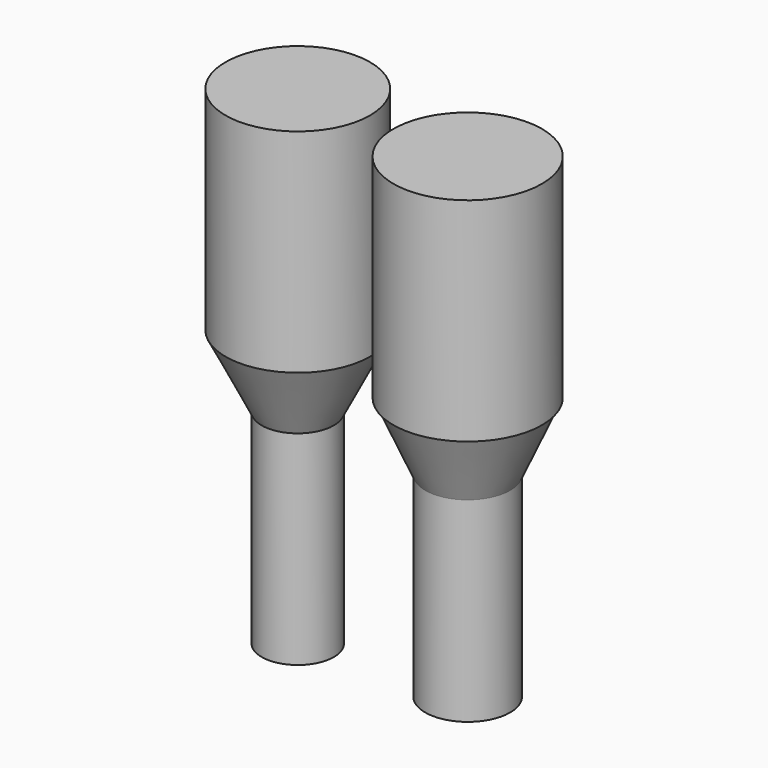
from build123d import *

# Parameters (mm, degrees)
CYLINDER_R        = 2
CYLINDER_DEPTH    = 9.2
CYLINDER003_R     = 3.5
CYLINDER003_DEPTH = 10
CYLINDER002_R     = 3.4
CYLINDER002_DEPTH = 10
CYLINDER001_R     = 1.7
CYLINDER001_DEPTH = 9.6


with BuildPart() as pass_screw_thread:
    # Cylinder → Cylinder (new body)
    with BuildSketch(Plane.XY.offset(-9.2)):
        Circle(CYLINDER_R)
    extrude(amount=CYLINDER_DEPTH)


with BuildPart() as pass_screw_head:
    # Cone → Cone (revolve)
    with BuildSketch(Plane.XZ):
        Polygon((0, 0), (2, 0), (3.5, 3.4), (0, 3.4), align=None)
    revolve(axis=Axis((0, 0, 0), (0, 0, 1)))


with BuildPart() as bad_screw:
    # Cylinder003 → Cylinder003 (new body)
    with BuildSketch(Plane.XY.offset(3.2)):
        Circle(CYLINDER003_R)
    extrude(amount=CYLINDER003_DEPTH)

    # Fusion: union pass-screw-thread, pass-screw-head
    add(pass_screw_thread.part)
    add(pass_screw_head.part)


with BuildPart() as bad_screw_1:
    # Fusion placement: moved
    add(bad_screw.part.moved(Location((8, 0, 0))))


with BuildPart() as grab_screw_head:
    # Cone001 → Cone001 (revolve)
    with BuildSketch(Plane.XZ):
        Polygon((0, 0), (1.7, 0), (3.4, 3.4), (0, 3.4), align=None)
    revolve(axis=Axis((0, 0, 0), (0, 0, 1)))


with BuildPart() as grab_screw_head_extension:
    # Cylinder002 → Cylinder002 (new body)
    with BuildSketch(Plane.XY.offset(3.4)):
        Circle(CYLINDER002_R)
    extrude(amount=CYLINDER002_DEPTH)


with BuildPart() as grab_screw:
    # Cylinder001 → Cylinder001 (new body)
    with BuildSketch(Plane.XY.offset(-9.6)):
        Circle(CYLINDER001_R)
    extrude(amount=CYLINDER001_DEPTH)

    # Fusion001: union grab-screw-head, grab-screw-head-extension
    add(grab_screw_head.part)
    add(grab_screw_head_extension.part)


solid = Compound([bad_screw_1.part, grab_screw.part])
